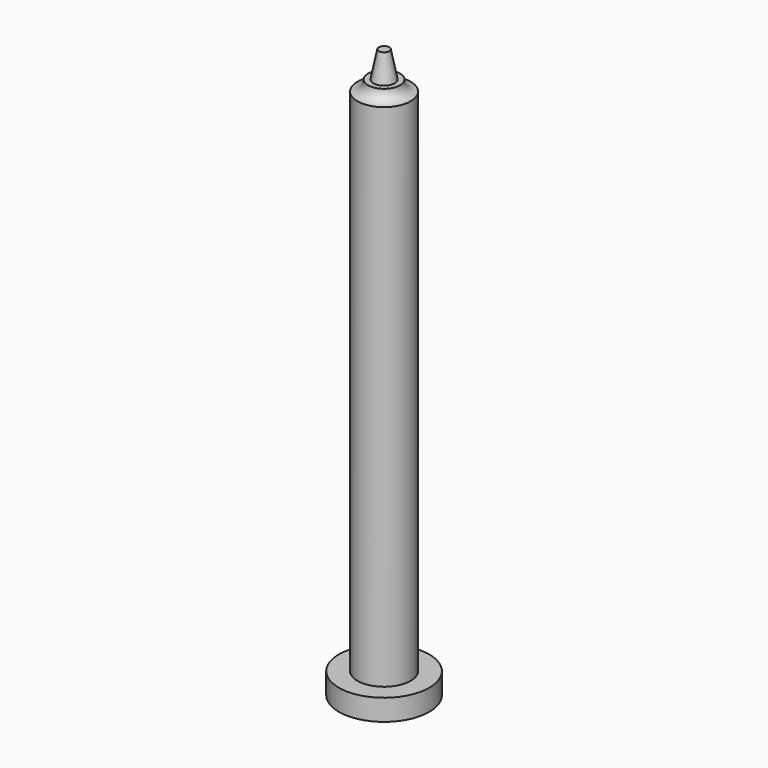
from build123d import *

# Parameters (mm, degrees)
F0_R     = 8.5
F1_DEPTH = 4
F2_R     = 5
F3_DEPTH = 100


with BuildPart() as f1:
    # F0 (on Top) → F1 (new body)
    with BuildSketch(Plane.XY):
        Circle(F0_R)
    extrude(amount=F1_DEPTH)

    # F2 (on Top) → F3 (join)
    with BuildSketch(Plane.XY):
        Circle(F2_R)
    extrude(amount=F3_DEPTH)

    # F4 (on Right) → F5 (revolve)
    with BuildSketch(Plane.YZ):
        with BuildLine():
            Line((3, 102), (0, 102))
            Line((0, 102), (0, 100))
            Line((0, 100), (5, 100))
            ThreePointArc((5, 100), (3.585786, 100.585786), (3, 102))
        make_face()
    revolve(axis=Axis((0, 0, 101), (0, 0, -1)))

    # F6 (on Right) → F7 (revolve)
    with BuildSketch(Plane.YZ):
        Polygon((0, 107), (0, 102), (2, 102), (1, 107), align=None)
    revolve(axis=Axis((0, 0, 104.5), (0, 0, 1)))


solid = f1.part
